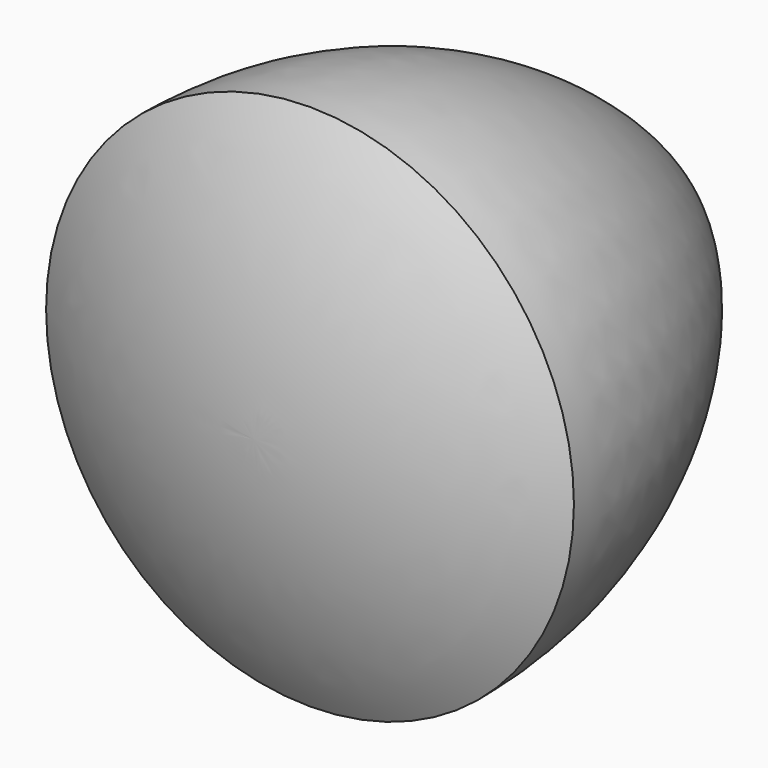
from build123d import *


with BuildPart() as f1:
    # F0 (on Top) → F1 (revolve)
    with BuildSketch(Plane.XY):
        Polygon((0, -65.991136), (0, 0), (-38.1, -65.991136), align=None)
        with BuildLine():
            Line((-38.1, -65.991136), (0, 0))
            ThreePointArc((0, 0), (-27.891136, -27.891136), (-38.1, -65.991136))
        make_face()
        with BuildLine():
            Line((0, -65.991136), (-38.1, -65.991136))
            ThreePointArc((-38.1, -65.991136), (-19.722011, -73.603548), (0, -76.2))
            Line((0, -76.2), (0, -65.991136))
        make_face()
    revolve(axis=Axis((0, -38.1, 0), (0, -1, 0)))


solid = f1.part
